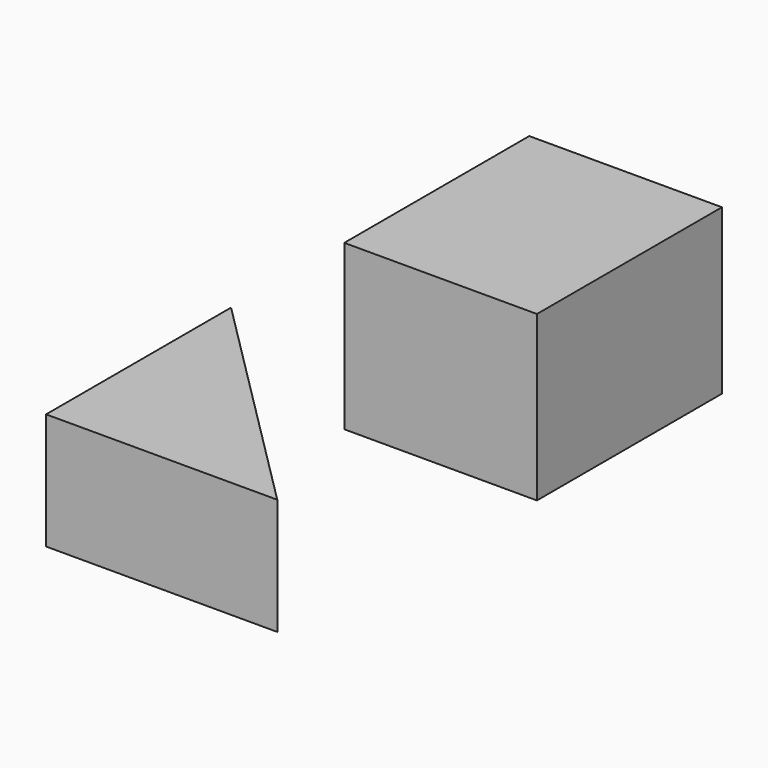
from build123d import *

# Parameters (mm, degrees)
F0_W     = 50
F0_H     = 60
F1_DEPTH = 42.6
F3_DEPTH = 30.2


with BuildPart() as f1:
    # F0 (on Top) → F1 (new body)
    with BuildSketch(Plane.XY):
        with Locations((-10.968323, 40.043981)):
            Rectangle(F0_W, F0_H)
    extrude(amount=F1_DEPTH)


with BuildPart() as f3:
    # F2 (on Top) → F3 (new body)
    with BuildSketch(Plane.XY):
        Polygon((8.988844, -67.88097), (-51.011156, -7.88097), (-51.011156, -67.88097), align=None)
    extrude(amount=F3_DEPTH)


solid = Compound([f1.part, f3.part])
